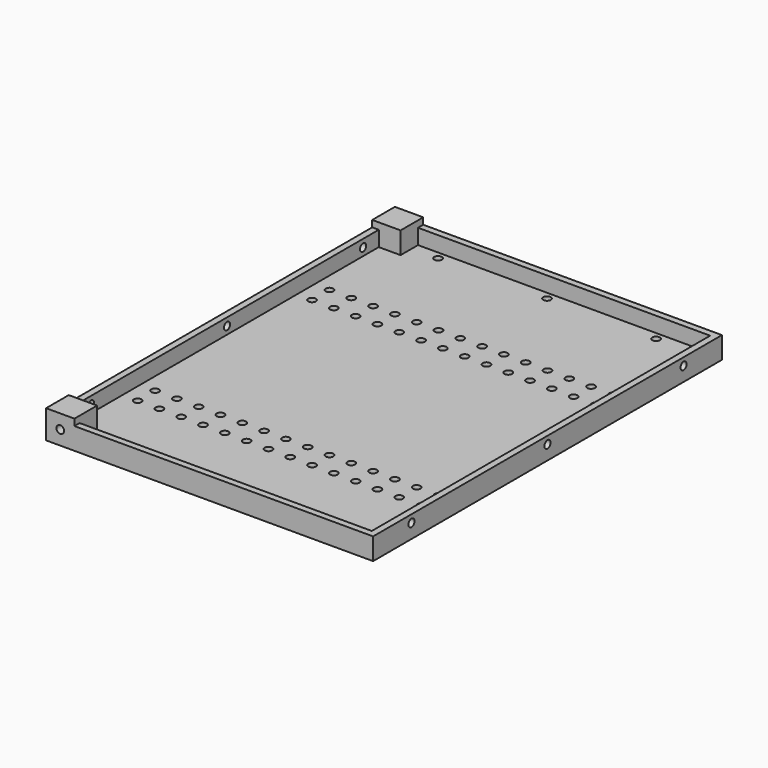
from build123d import *

# Parameters (mm, degrees)
SKETCH_W        = 150
SKETCH_H        = 200
SKETCH_R        = 1.75
PAD_DEPTH       = 3
SKETCH001_W     = 150
SKETCH001_H     = 200
PAD001_DEPTH    = 7
SKETCH002_R     = 1.75
POCKET_DEPTH    = 5
SKETCH003_R     = 1.75
POCKET001_DEPTH = 7.5
SKETCH004_R     = 1.75
POCKET002_DEPTH = 14
SKETCH005_W     = 13
SKETCH005_H     = 13
PAD002_DEPTH    = 3


with BuildPart() as part:
    # Sketch → Pad (new body)
    with BuildSketch(Plane.XY):
        with Locations((-75, 100)):
            Rectangle(SKETCH_W, SKETCH_H)
        with Locations((-140, 40)):
            Circle(SKETCH_R, mode=Mode.SUBTRACT)
        with Locations((-130, 40)):
            Circle(SKETCH_R, mode=Mode.SUBTRACT)
        with Locations((-120, 40)):
            Circle(SKETCH_R, mode=Mode.SUBTRACT)
        with Locations((-110, 40)):
            Circle(SKETCH_R, mode=Mode.SUBTRACT)
        with Locations((-100, 40)):
            Circle(SKETCH_R, mode=Mode.SUBTRACT)
        with Locations((-90, 40)):
            Circle(SKETCH_R, mode=Mode.SUBTRACT)
        with Locations((-80, 40)):
            Circle(SKETCH_R, mode=Mode.SUBTRACT)
        with Locations((-70, 40)):
            Circle(SKETCH_R, mode=Mode.SUBTRACT)
        with Locations((-60, 40)):
            Circle(SKETCH_R, mode=Mode.SUBTRACT)
        with Locations((-50, 40)):
            Circle(SKETCH_R, mode=Mode.SUBTRACT)
        with Locations((-40, 40)):
            Circle(SKETCH_R, mode=Mode.SUBTRACT)
        with Locations((-30, 40)):
            Circle(SKETCH_R, mode=Mode.SUBTRACT)
        with Locations((-20, 40)):
            Circle(SKETCH_R, mode=Mode.SUBTRACT)
        with Locations((-10, 40)):
            Circle(SKETCH_R, mode=Mode.SUBTRACT)
        with Locations((-140, 50)):
            Circle(SKETCH_R, mode=Mode.SUBTRACT)
        with Locations((-130, 50)):
            Circle(SKETCH_R, mode=Mode.SUBTRACT)
        with Locations((-120, 50)):
            Circle(SKETCH_R, mode=Mode.SUBTRACT)
        with Locations((-110, 50)):
            Circle(SKETCH_R, mode=Mode.SUBTRACT)
        with Locations((-100, 50)):
            Circle(SKETCH_R, mode=Mode.SUBTRACT)
        with Locations((-90, 50)):
            Circle(SKETCH_R, mode=Mode.SUBTRACT)
        with Locations((-80, 50)):
            Circle(SKETCH_R, mode=Mode.SUBTRACT)
        with Locations((-70, 50)):
            Circle(SKETCH_R, mode=Mode.SUBTRACT)
        with Locations((-60, 50)):
            Circle(SKETCH_R, mode=Mode.SUBTRACT)
        with Locations((-50, 50)):
            Circle(SKETCH_R, mode=Mode.SUBTRACT)
        with Locations((-40, 50)):
            Circle(SKETCH_R, mode=Mode.SUBTRACT)
        with Locations((-30, 50)):
            Circle(SKETCH_R, mode=Mode.SUBTRACT)
        with Locations((-20, 50)):
            Circle(SKETCH_R, mode=Mode.SUBTRACT)
        with Locations((-10, 50)):
            Circle(SKETCH_R, mode=Mode.SUBTRACT)
        with Locations((-140, 140)):
            Circle(SKETCH_R, mode=Mode.SUBTRACT)
        with Locations((-130, 140)):
            Circle(SKETCH_R, mode=Mode.SUBTRACT)
        with Locations((-120, 140)):
            Circle(SKETCH_R, mode=Mode.SUBTRACT)
        with Locations((-110, 140)):
            Circle(SKETCH_R, mode=Mode.SUBTRACT)
        with Locations((-100, 140)):
            Circle(SKETCH_R, mode=Mode.SUBTRACT)
        with Locations((-90, 140)):
            Circle(SKETCH_R, mode=Mode.SUBTRACT)
        with Locations((-80, 140)):
            Circle(SKETCH_R, mode=Mode.SUBTRACT)
        with Locations((-70, 140)):
            Circle(SKETCH_R, mode=Mode.SUBTRACT)
        with Locations((-60, 140)):
            Circle(SKETCH_R, mode=Mode.SUBTRACT)
        with Locations((-50, 140)):
            Circle(SKETCH_R, mode=Mode.SUBTRACT)
        with Locations((-40, 140)):
            Circle(SKETCH_R, mode=Mode.SUBTRACT)
        with Locations((-30, 140)):
            Circle(SKETCH_R, mode=Mode.SUBTRACT)
        with Locations((-20, 140)):
            Circle(SKETCH_R, mode=Mode.SUBTRACT)
        with Locations((-10, 140)):
            Circle(SKETCH_R, mode=Mode.SUBTRACT)
        with Locations((-140, 150)):
            Circle(SKETCH_R, mode=Mode.SUBTRACT)
        with Locations((-130, 150)):
            Circle(SKETCH_R, mode=Mode.SUBTRACT)
        with Locations((-120, 150)):
            Circle(SKETCH_R, mode=Mode.SUBTRACT)
        with Locations((-110, 150)):
            Circle(SKETCH_R, mode=Mode.SUBTRACT)
        with Locations((-100, 150)):
            Circle(SKETCH_R, mode=Mode.SUBTRACT)
        with Locations((-90, 150)):
            Circle(SKETCH_R, mode=Mode.SUBTRACT)
        with Locations((-80, 150)):
            Circle(SKETCH_R, mode=Mode.SUBTRACT)
        with Locations((-70, 150)):
            Circle(SKETCH_R, mode=Mode.SUBTRACT)
        with Locations((-60, 150)):
            Circle(SKETCH_R, mode=Mode.SUBTRACT)
        with Locations((-50, 150)):
            Circle(SKETCH_R, mode=Mode.SUBTRACT)
        with Locations((-40, 150)):
            Circle(SKETCH_R, mode=Mode.SUBTRACT)
        with Locations((-30, 150)):
            Circle(SKETCH_R, mode=Mode.SUBTRACT)
        with Locations((-20, 150)):
            Circle(SKETCH_R, mode=Mode.SUBTRACT)
        with Locations((-10, 150)):
            Circle(SKETCH_R, mode=Mode.SUBTRACT)
        with Locations((-125, 193.5)):
            Circle(SKETCH_R, mode=Mode.SUBTRACT)
        with Locations((-125, 6.5)):
            Circle(SKETCH_R, mode=Mode.SUBTRACT)
        with Locations((-25, 6.5)):
            Circle(SKETCH_R, mode=Mode.SUBTRACT)
        with Locations((-75, 6.5)):
            Circle(SKETCH_R, mode=Mode.SUBTRACT)
        with Locations((-25, 193.5)):
            Circle(SKETCH_R, mode=Mode.SUBTRACT)
        with Locations((-75, 193.5)):
            Circle(SKETCH_R, mode=Mode.SUBTRACT)
    extrude(amount=PAD_DEPTH)

    # Sketch001 → Pad001 (join)
    with BuildSketch(Plane.XY.offset(3)):
        with Locations((-75, 100)):
            Rectangle(SKETCH001_W, SKETCH001_H)
        Polygon((-3, 197), (-137, 197), (-137, 187), (-147, 187), (-147, 13), (-137, 13), (-137, 3), (-3, 3), align=None, mode=Mode.SUBTRACT)
    extrude(amount=PAD001_DEPTH)

    # Sketch002 → Pocket (cut)
    with BuildSketch(Plane.YZ):
        with Locations((22, 6.5)):
            Circle(SKETCH002_R)
        with Locations((100, 6.5)):
            Circle(SKETCH002_R)
        with Locations((178, 6.5)):
            Circle(SKETCH002_R)
    extrude(amount=-POCKET_DEPTH, mode=Mode.SUBTRACT)

    # Sketch003 → Pocket001 (cut, symmetric)
    with BuildSketch(Plane.YZ.offset(-150)):
        with Locations((100, 6.5)):
            Circle(SKETCH003_R)
        with Locations((22, 6.5)):
            Circle(SKETCH003_R)
        with Locations((178, 6.5)):
            Circle(SKETCH003_R)
    extrude(amount=POCKET001_DEPTH, both=True, mode=Mode.SUBTRACT)

    # Sketch004 → Pocket002 (cut)
    with BuildSketch(Plane.XZ):
        with Locations((-143.5, 6.5)):
            Circle(SKETCH004_R)
    extrude(amount=-POCKET002_DEPTH, mode=Mode.SUBTRACT)

    # Sketch005 → Pad002 (join)
    with BuildSketch(Plane.XY.offset(10)):
        with Locations((-143.5, 193.5)):
            Rectangle(SKETCH005_W, SKETCH005_H)
        with Locations((-143.5, 6.5)):
            Rectangle(SKETCH005_W, SKETCH005_H)
    extrude(amount=PAD002_DEPTH)


solid = part.part
